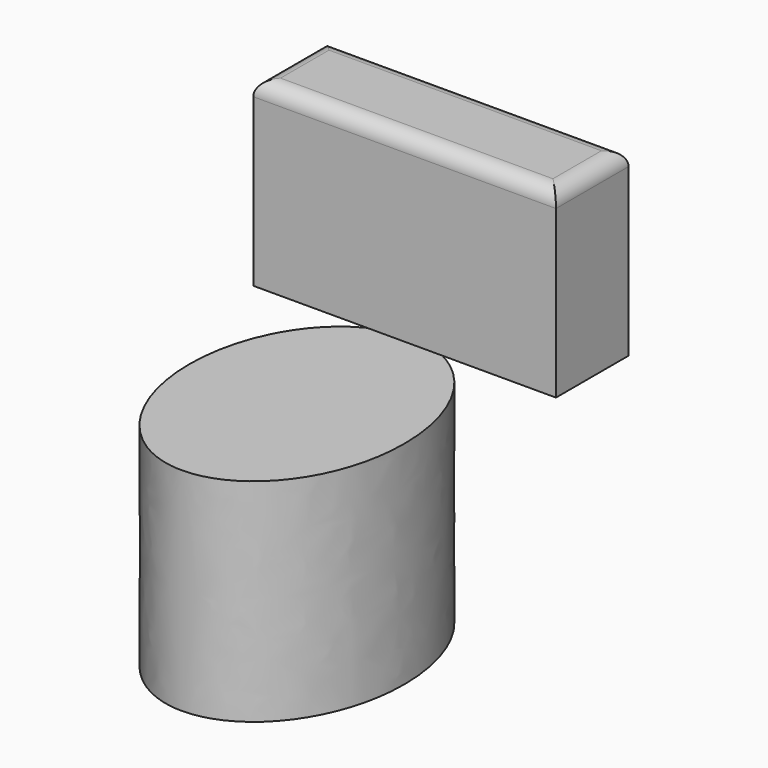
from build123d import *

# Parameters (mm, degrees)
F1_DEPTH = 355.6
F2_W     = 508
F2_H     = 152.4
F3_DEPTH = 304.8
F4_R     = 25.4


with BuildPart() as f1:
    # F0 (on Top) → F1 (new body)
    with BuildSketch(Plane.XY):
        with BuildLine():
            add(Edge.make_bspline(
                [(0, -482.6), (312.809674, -482.6), (156.404837, -120.65), (0, 241.3), (-156.404837, -120.65), (-312.809674, -482.6), (0, -482.6)],
                knots=[0, 0, 0, 2.094395, 2.094395, 4.18879, 4.18879, 6.283185, 6.283185, 6.283185], degree=2, weights=[1, 0.5, 1, 0.5, 1, 0.5, 1]))
        make_face()
    extrude(amount=-F1_DEPTH)

    # F2 (on face) → F3 (join)
    with BuildSketch(Plane.XY):
        with Locations((0, 60.96)):
            Rectangle(F2_W, F2_H)
    extrude(amount=F3_DEPTH)

    # F4
    f4_edges = [f1.edges().sort_by_distance(p)[0] for p in [
        (0, -15.24, 304.8),
        (254, 60.96, 304.8),
        (0, 137.16, 304.8),
        (-254, 60.96, 304.8),
    ]]
    fillet(f4_edges, radius=F4_R)


solid = f1.part
